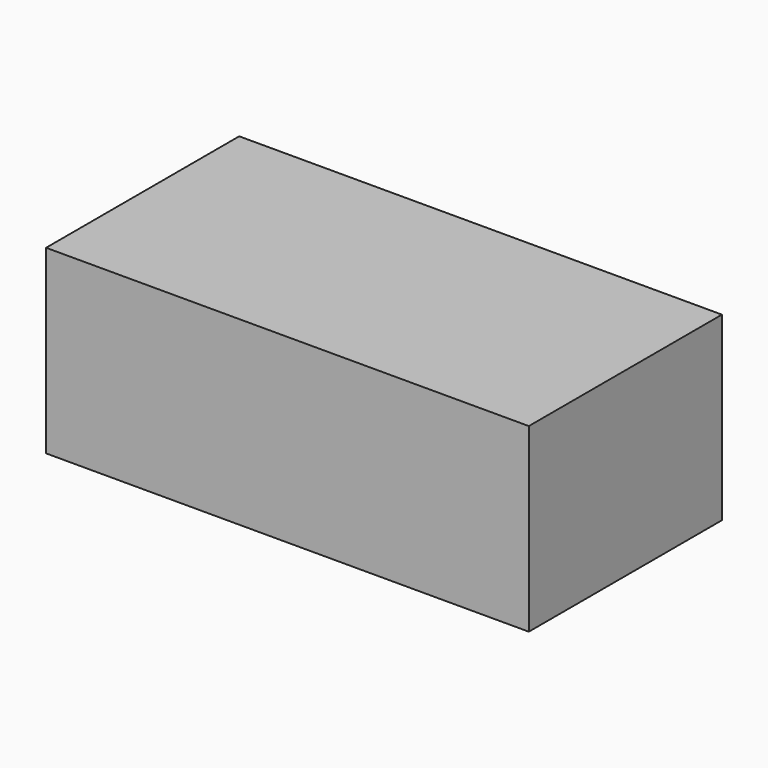
from build123d import *

# Parameters (mm, degrees)
F0_W     = 200
F0_H     = 100
F1_DEPTH = 75


with BuildPart() as f1:
    # F0 (on Top) → F1 (new body)
    with BuildSketch(Plane.XY):
        Rectangle(F0_W, F0_H)
    extrude(amount=F1_DEPTH)

    # F2 (on face) → F3 (revolve, cut)
    with BuildSketch(Plane(origin=(0, 0, 0), x_dir=(1, 0, 0), z_dir=(0, 0, -1))):
        with BuildLine():
            Line((60, 20), (60, -20))
            ThreePointArc((60, -20), (80, 0), (60, 20))
        make_face()
    revolve(axis=Axis((60, 0, 0), (0, 1, 0)), mode=Mode.SUBTRACT)


solid = f1.part
